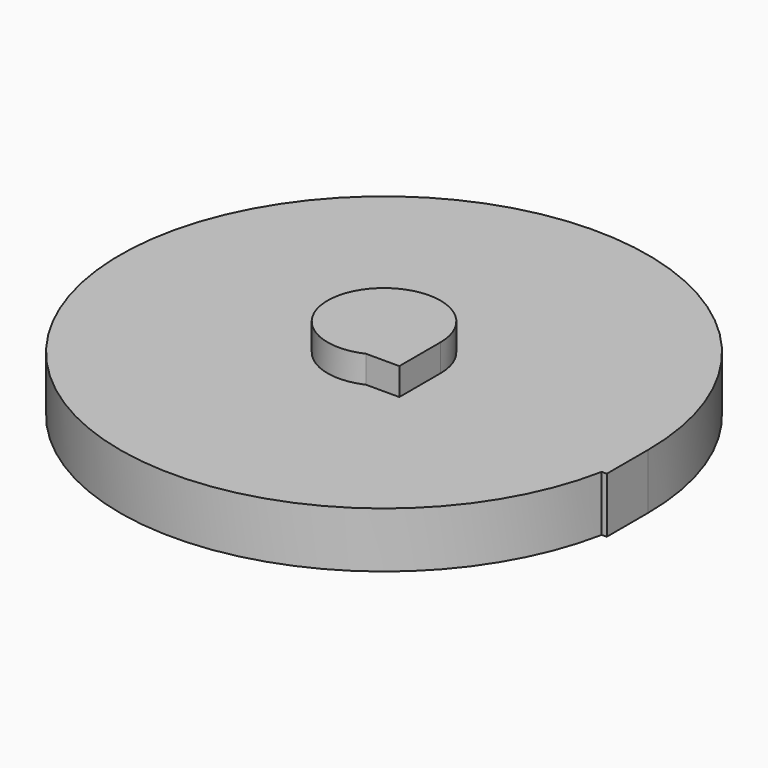
from build123d import *

# Parameters (mm, degrees)
F0_W       = 102.2983789444
F0_H       = 27.3756235838
F1_DEPTH   = 25.4
F1_FACE1_W = 25.4
F1_FACE1_H = 54.2709715664


with BuildPart() as f1:
    # F0 (on Front) → F1 (new body)
    with BuildSketch(Plane.XZ):
        Rectangle(F0_W, F0_H)
        Polygon((-51.1491894722, -13.6878117919), (-51.1491894722, 13.6878117919), (-51.1491894722, 27.1354857832), (-79.0050774813, 27.1354857832), (-79.0050774813, -27.1354857832), (-51.1491894722, -27.1354857832), align=None)
    extrude(amount=F1_DEPTH)

    # F1_face (on face) + F1_face1 (on face) → F2 (revolve)
    with BuildSketch(Plane(origin=(-22.8144123867, 0, 0), x_dir=(1, 0, 0), z_dir=(0, 1, 0))):
        Polygon((73.9636018589, -13.6878117919), (73.9636018589, 13.6878117919), (-28.3347770855, 13.6878117919), (-28.3347770855, 27.1354857832), (-56.1906650945, 27.1354857832), (-56.1906650945, -27.1354857832), (-28.3347770855, -27.1354857832), (-28.3347770855, -13.6878117919), align=None)
    with BuildSketch(Plane(origin=(-79.0050774813, -12.7, 0), x_dir=(0, -1, 0), z_dir=(-1, 0, 0))):
        Rectangle(F1_FACE1_W, F1_FACE1_H)
    revolve(axis=Axis((-79.0050774813, 0, 0), (0, 0, 1)))


solid = f1.part
